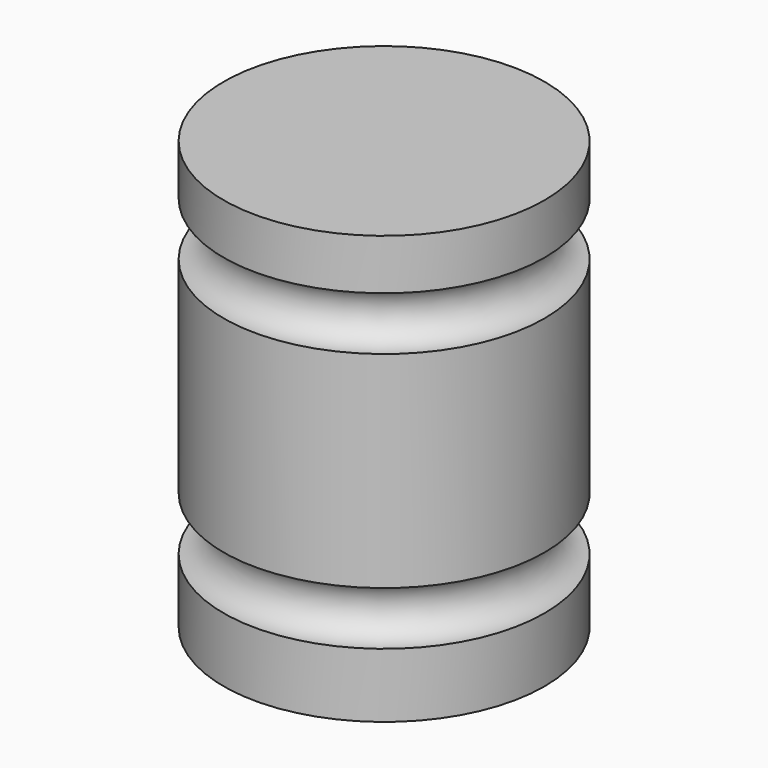
from build123d import *


with BuildPart() as f1:
    # F0 (on Front) → F1 (revolve)
    with BuildSketch(Plane.XZ):
        with BuildLine():
            Line((-38.1, 0), (0, 0))
            Line((0, 0), (0, 15.282483))
            ThreePointArc((0, 15.282483), (-6.35, 21.632483), (0, 27.982483))
            Line((0, 27.982483), (0, 76.89983))
            ThreePointArc((0, 76.89983), (-6.35, 83.24983), (0, 89.59983))
            Line((0, 89.59983), (0, 101.6))
            Line((0, 101.6), (-38.1, 101.6))
            Line((-38.1, 101.6), (-38.1, 0))
        make_face()
    revolve(axis=Axis((-38.1, 0, 50.8), (0, 0, 1)))


solid = f1.part
